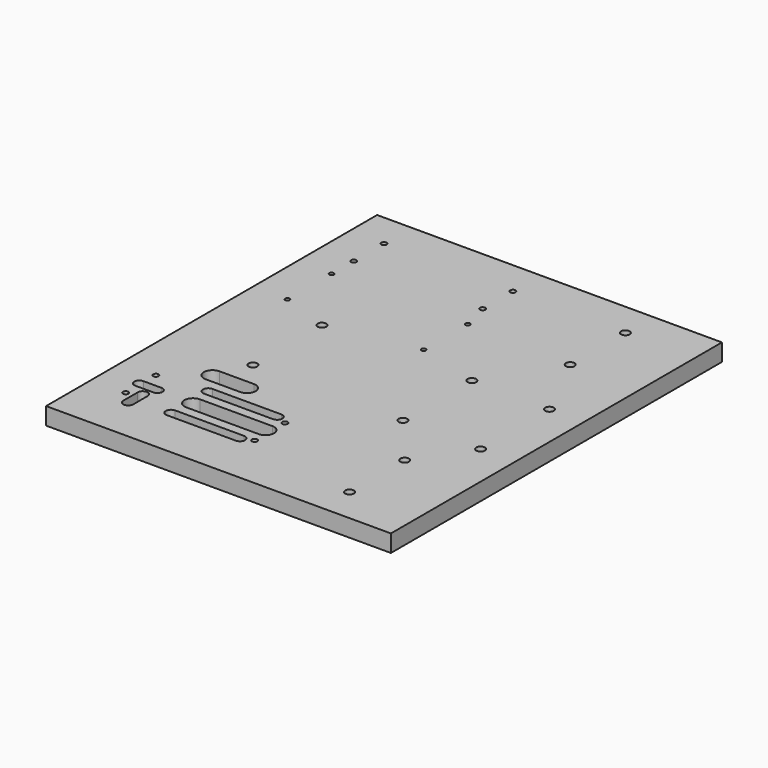
from build123d import *

# Parameters (mm, degrees)
F0_W     = 254
F0_H     = 304.8
F1_DEPTH = 12.7
F2_R     = 1.9812
F2_R_2   = 1.649997
F2_R_3   = 3.175
F2_W     = 50.8
F2_H     = 7.62
F2_W_2   = 25.4
F2_H_2   = 12.7
F2_W_3   = 7.36092
F2_H_3   = 13.335
F2_W_4   = 13.335
F2_H_4   = 7.37362
F3_DEPTH = 25.4


with BuildPart() as f1:
    # F0 (on Top) → F1 (new body)
    with BuildSketch(Plane.XY):
        Rectangle(F0_W, F0_H)
    extrude(amount=F1_DEPTH)

    # F2 (on face) → F3 (cut)
    with BuildSketch(Plane.XY.offset(12.7)):
        with Locations((-101.6, 127)):
            Circle(F2_R)
        with Locations((-101.6, 99.114788)):
            Circle(F2_R)
        with Locations((-6.609004, 127)):
            Circle(F2_R)
        with Locations((-6.609004, 99.114788)):
            Circle(F2_R)
        with Locations((-101.6, -82.973088)):
            Circle(F2_R)
        with Locations((-6.609004, -82.973088)):
            Circle(F2_R)
        with Locations((-6.609004, -110.8583)):
            Circle(F2_R)
        with Locations((-101.6, -110.8583)):
            Circle(F2_R)
        with Locations((-101.6, 78.74)):
            Circle(F2_R_2)
        with Locations((-101.6, 38.11999)):
            Circle(F2_R_2)
        with Locations((-66.04, 25.4)):
            Circle(F2_R_3)
        with Locations((-66.04, -38.1)):
            Circle(F2_R_3)
        with Locations((76.2, -76.2)):
            Circle(F2_R_3)
        with Locations((76.2, -127)):
            Circle(F2_R_3)
        with Locations((76.2, 127)):
            Circle(F2_R_3)
        with Locations((76.2, 76.2)):
            Circle(F2_R_3)
        with Locations((44.45, 25.4)):
            Circle(F2_R_3)
        with Locations((101.6, 25.4)):
            Circle(F2_R_3)
        with Locations((44.45, -38.1)):
            Circle(F2_R_3)
        with Locations((101.6, -38.1)):
            Circle(F2_R_3)
        Polygon((-9.784004, -90.5764), (-63.124004, -90.5764), (-63.124004, -96.9264), (-63.124004, -103.2764), (-9.784004, -103.2764), align=None)
        with BuildLine():
            Line((-63.124004, -96.9264), (-63.124004, -90.5764))
            ThreePointArc((-63.124004, -90.5764), (-69.474004, -96.9264), (-63.124004, -103.2764))
            Line((-63.124004, -103.2764), (-63.124004, -96.9264))
        make_face()
        with BuildLine():
            ThreePointArc((-9.784004, -103.2764), (-3.434004, -96.9264), (-9.784004, -90.5764))
            Line((-9.784004, -90.5764), (-9.784004, -103.2764))
        make_face()
        with Locations((-40.264004, -114.0714)):
            Rectangle(F2_W, F2_H)
        with BuildLine():
            Line((-65.664004, -117.8814), (-65.664004, -110.2614))
            ThreePointArc((-65.664004, -110.2614), (-69.474004, -114.0714), (-65.664004, -117.8814))
        make_face()
        with BuildLine():
            ThreePointArc((-14.864004, -117.8814), (-11.054004, -114.0714), (-14.864004, -110.2614))
            Line((-14.864004, -110.2614), (-14.864004, -117.8814))
        make_face()
        with Locations((-63.5, -62.6364)):
            Rectangle(F2_W_2, F2_H_2)
        with BuildLine():
            Line((-76.2, -68.9864), (-76.2, -56.2864))
            ThreePointArc((-76.2, -56.2864), (-82.55, -62.6364), (-76.2, -68.9864))
        make_face()
        with BuildLine():
            ThreePointArc((-50.8, -68.9864), (-44.45, -62.6364), (-50.8, -56.2864))
            Line((-50.8, -56.2864), (-50.8, -68.9864))
        make_face()
        with Locations((-40.264004, -79.7814)):
            Rectangle(F2_W, F2_H)
        with BuildLine():
            Line((-65.664004, -83.5914), (-65.664004, -75.9714))
            ThreePointArc((-65.664004, -75.9714), (-69.474004, -79.7814), (-65.664004, -83.5914))
        make_face()
        with BuildLine():
            ThreePointArc((-14.864004, -83.5914), (-11.054004, -79.7814), (-14.864004, -75.9714))
            Line((-14.864004, -75.9714), (-14.864004, -83.5914))
        make_face()
        with Locations((-1.28999, 78.74)):
            Circle(F2_R_2)
        with Locations((-1.28999, 38.11999)):
            Circle(F2_R_2)
        with BuildLine():
            ThreePointArc((-89.15908, -106.1085), (-92.83954, -102.42804), (-96.52, -106.1085))
            Line((-96.52, -106.1085), (-89.15908, -106.1085))
        make_face()
        with Locations((-92.83954, -112.776)):
            Rectangle(F2_W_3, F2_H_3)
        with BuildLine():
            Line((-89.15908, -119.4435), (-96.52, -119.4435))
            ThreePointArc((-96.52, -119.4435), (-92.83954, -123.12396), (-89.15908, -119.4435))
        make_face()
        with Locations((-96.0755, -96.878318)):
            Rectangle(F2_W_4, F2_H_4)
        with BuildLine():
            ThreePointArc((-89.408, -100.565128), (-85.72119, -96.878318), (-89.408, -93.191508))
            Line((-89.408, -93.191508), (-89.408, -100.565128))
        make_face()
        with BuildLine():
            Line((-102.743, -100.565128), (-102.743, -93.191508))
            ThreePointArc((-102.743, -93.191508), (-106.42981, -96.878318), (-102.743, -100.565128))
        make_face()
    extrude(amount=-F3_DEPTH, mode=Mode.SUBTRACT)


solid = f1.part
